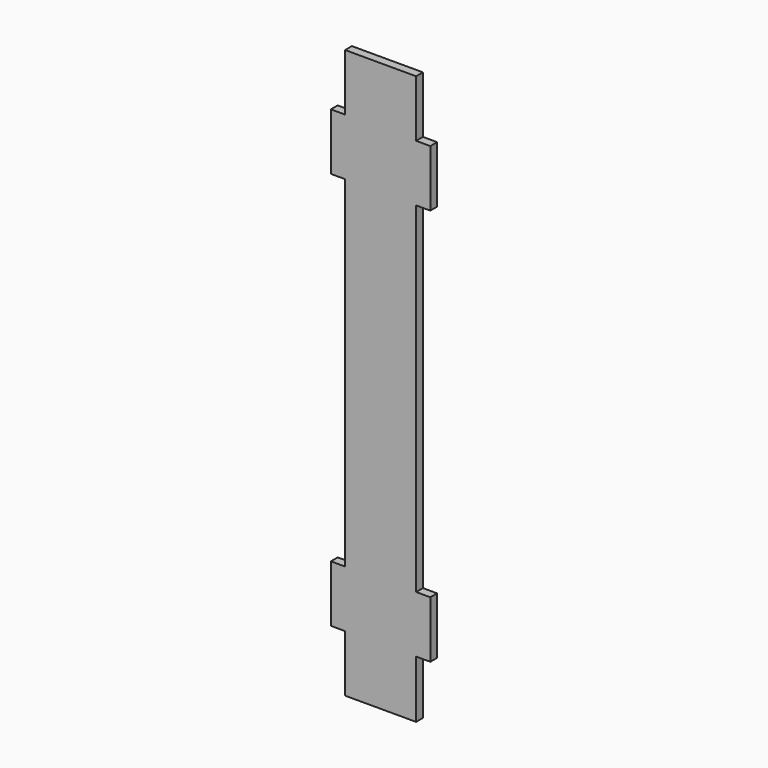
from build123d import *

# Parameters (mm, degrees)
F0_W     = 5
F0_H     = 20
F1_DEPTH = 3


with BuildPart() as f1:
    # F0 (on Front) → F1 (new body)
    with BuildSketch(Plane.XZ):
        Polygon((0, 107.721728), (-25, 107.721728), (-25, 87.721728), (-25, 67.721728), (-25, -52.278272), (-25, -72.278272), (-25, -92.278272), (0, -92.278272), (0, -72.278272), (0, -72.036713), (0, -52.036713), (0, 67.721728), (0, 87.721728), align=None)
        with Locations((2.5, 77.721728)):
            Rectangle(F0_W, F0_H)
        with Locations((-27.5, 77.721728)):
            Rectangle(F0_W, F0_H)
        Polygon((3, -52.036713), (0, -52.036713), (0, -72.036713), (5, -72.036713), (5, -52.036713), align=None)
        Polygon((-25, -72.278272), (-25, -52.278272), (-28, -52.278272), (-30, -52.278272), (-30, -72.278272), (-28, -72.278272), align=None)
    extrude(amount=-F1_DEPTH)


solid = f1.part
